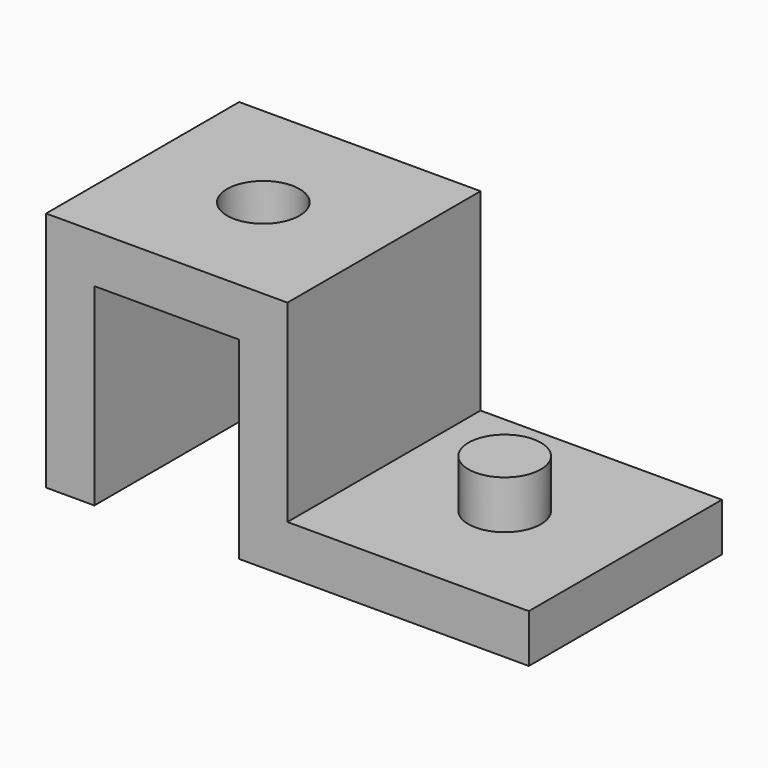
from build123d import *

# Parameters (mm, degrees)
F0_W     = 100
F0_H     = 50
F1_DEPTH = 50
F2_W     = 50
F2_H     = 40
F3_DEPTH = 50.001
F4_W     = 30
F4_H     = 40
F5_DEPTH = 50.001
F6_R     = 7.5
F7_DEPTH = 50.001
F8_R     = 7.5
F9_DEPTH = 20


with BuildPart() as f1:
    # F0 (on Top) → F1 (new body)
    with BuildSketch(Plane.XY):
        with Locations((-14.386872, 0)):
            Rectangle(F0_W, F0_H)
    extrude(amount=F1_DEPTH)

    # F2 (on face) → F3 (cut, through all)
    with BuildSketch(Plane.XZ.offset(25)):
        with Locations((10.613128, 30)):
            Rectangle(F2_W, F2_H)
    extrude(amount=-F3_DEPTH, mode=Mode.SUBTRACT)

    # F4 (on face) → F5 (cut, through all)
    with BuildSketch(Plane.XZ.offset(25)):
        with Locations((-39.386872, 20)):
            Rectangle(F4_W, F4_H)
    extrude(amount=-F5_DEPTH, mode=Mode.SUBTRACT)

    # F6 (on face) → F7 (cut, through all)
    with BuildSketch(Plane.XY.offset(50)):
        with Locations((-39.386872, 0)):
            Circle(F6_R)
    extrude(amount=-F7_DEPTH, mode=Mode.SUBTRACT)

    # F8 (on face) → F9 (join)
    with BuildSketch(Plane.XY):
        with Locations((10.613128, 0)):
            Circle(F8_R)
    extrude(amount=F9_DEPTH)


solid = f1.part
